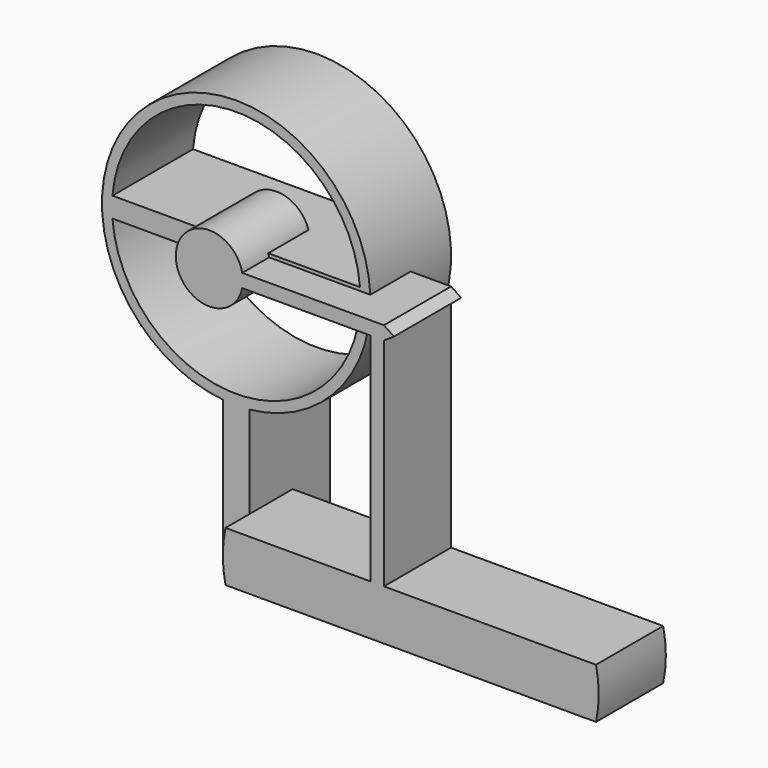
from build123d import *

# Parameters (mm, degrees)
F1_DEPTH = 15
F3_DEPTH = 25


with BuildPart() as f1:
    # F0 (on Front) → F1 (new body, symmetric)
    with BuildSketch(Plane.XZ):
        with BuildLine():
            ThreePointArc((4, -39.7994974843), (29.6647939484, -26.83281573), (40, 0))
            ThreePointArc((40, 0), (-26.83281573, 29.6647939484), (-4, -39.7994974843))
            ThreePointArc((-4, -39.7994974843), (0, -40), (4, -39.7994974843))
        make_face()
        with BuildLine():
            Line((36.8781778292, 3), (-36.8781778292, 3))
            ThreePointArc((-36.8781778292, 3), (0, 37), (36.8781778292, 3))
        make_face(mode=Mode.SUBTRACT)
        with BuildLine():
            ThreePointArc((36.8781778292, -3), (0, -37), (-36.8781778292, -3))
            Line((-36.8781778292, -3), (36.8781778292, -3))
        make_face(mode=Mode.SUBTRACT)
        with BuildLine():
            ThreePointArc((4, -39.7994974843), (0, -40), (-4, -39.7994974843))
            Line((-4, -39.7994974843), (-4, -80))
            Line((-4, -80), (4, -80))
            Line((4, -80), (4, -39.7994974843))
        make_face()
    extrude(amount=F1_DEPTH, both=True)


with BuildPart() as f3:
    # F2 (on Front) → F3 (new body)
    with BuildSketch(Plane.XZ):
        with BuildLine():
            Line((48, -66.5), (4.8130141721, -66.5))
            ThreePointArc((4.8130141721, -66.5), (4, -74), (4.8130141721, -81.5))
            Line((4.8130141721, -81.5), (115.1869858279, -81.5))
            ThreePointArc((115.1869858279, -81.5), (116, -74), (115.1869858279, -66.5))
            Line((115.1869858279, -66.5), (52, -66.5))
            Line((52, -66.5), (48, -66.5))
        make_face()
        with BuildLine():
            Line((48, -2), (48, -66.5))
            Line((48, -66.5), (52, -66.5))
            Line((52, -66.5), (52, -2))
            Line((52, -2), (55, 0))
            Line((55, 0), (52, 2))
            Line((52, 2), (9.7979589711, 2))
            ThreePointArc((9.7979589711, 2), (9.9493615301, 1.0050896201), (10, 0))
            ThreePointArc((10, 0), (9.9493615301, -1.0050896201), (9.7979589711, -2))
            Line((9.7979589711, -2), (48, -2))
        make_face()
        with BuildLine():
            ThreePointArc((9.7979589711, 2), (-10, 0), (9.7979589711, -2))
            ThreePointArc((9.7979589711, -2), (9.9493615301, -1.0050896201), (10, 0))
            ThreePointArc((10, 0), (9.9493615301, 1.0050896201), (9.7979589711, 2))
        make_face()
    extrude(amount=F3_DEPTH)


solid = Compound([f1.part, f3.part])
